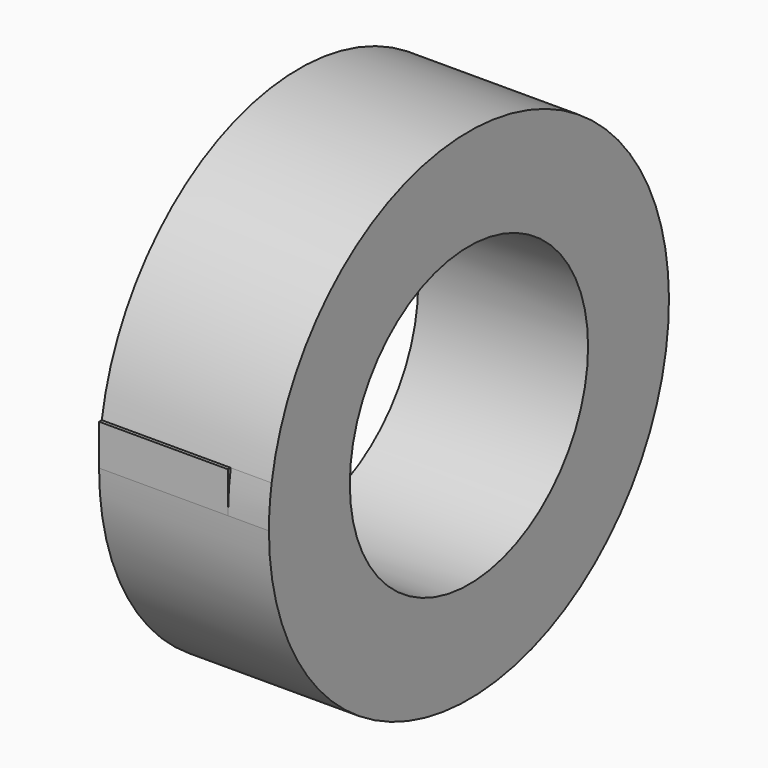
from build123d import *

# Parameters (mm, degrees)
F0_W      = 105.6232824922
F0_H      = 62.8593713045
F1_DEPTH  = 25.4
F1_FACE_W = 105.6232824922
F1_FACE_H = 62.8593713045
F5_DEPTH  = 25.4


with BuildPart() as f1:
    # F0 (on Top) → F1 (new body)
    with BuildSketch(Plane.XY):
        with Locations((52.8116412461, -31.4296856523)):
            Rectangle(F0_W, F0_H)
    extrude(amount=F1_DEPTH)

    # F1_face (on face) → F3 (revolve)
    with BuildSketch(Plane(origin=(52.8116412461, -31.4296856523, 0), x_dir=(1, 0, 0), z_dir=(0, 0, -1))):
        Rectangle(F1_FACE_W, F1_FACE_H)
    revolve(axis=Axis((0, 92.5896167755, 0), (1, 0, 0)))

    # F4 (on face) → F5 (cut)
    with BuildSketch(Plane.YZ.offset(105.6232824922)):
        with BuildLine():
            ThreePointArc((-62.8593713045, 0), (-62.3361935892, 12.742887347), (-60.7701820477, 25.4))
            Line((-60.7701820477, 25.4), (-62.8593713045, 25.4))
            Line((-62.8593713045, 25.4), (-62.8593713045, 0))
        make_face()
    extrude(amount=-F5_DEPTH, mode=Mode.SUBTRACT)


solid = f1.part
